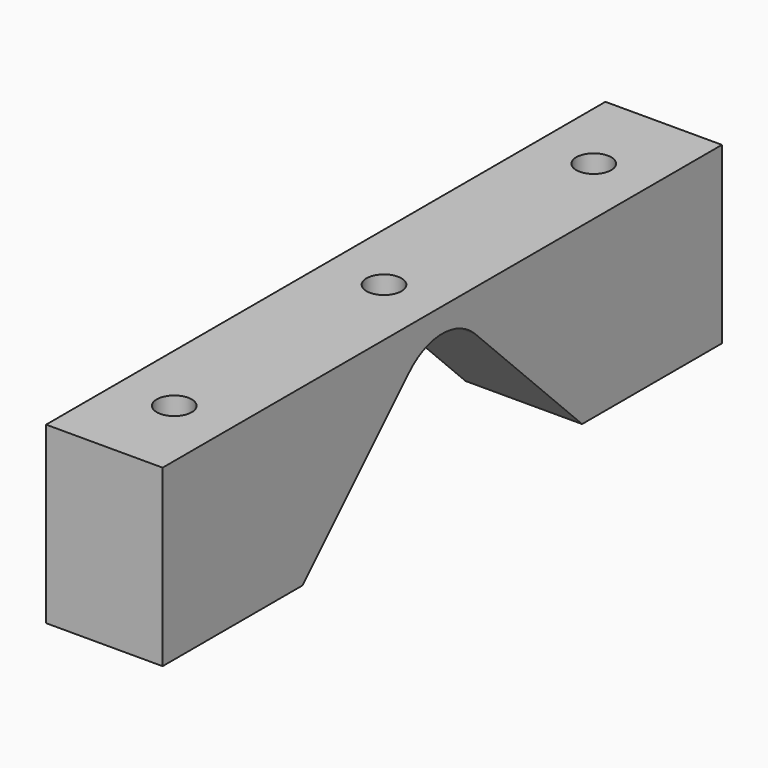
from build123d import *

# Parameters (mm, degrees)
F1_DEPTH = 10
F2_R     = 1.5
F3_DEPTH = 15.001


with BuildPart() as f1:
    # F0 (on Right) → F1 (new body)
    with BuildSketch(Plane.YZ):
        with BuildLine():
            Line((30, 15), (-30, 15))
            Line((-30, 15), (-30, 0))
            Line((-30, 0), (-15, 0))
            Line((-15, 0), (-3.5355339059, 11.4644660941))
            ThreePointArc((-3.5355339059, 11.4644660941), (0, 12.9289321881), (3.5355339059, 11.4644660941))
            Line((3.5355339059, 11.4644660941), (15, 0))
            Line((15, 0), (30, 0))
            Line((30, 0), (30, 15))
        make_face()
    extrude(amount=F1_DEPTH)

    # F2 (on face) → F3 (cut, through all)
    with BuildSketch(Plane.XY.offset(15)):
        with Locations((5, 0)):
            Circle(F2_R)
        with Locations((5, 22.5)):
            Circle(F2_R)
        with Locations((5, -22.5)):
            Circle(F2_R)
    extrude(amount=-F3_DEPTH, mode=Mode.SUBTRACT)


solid = f1.part
